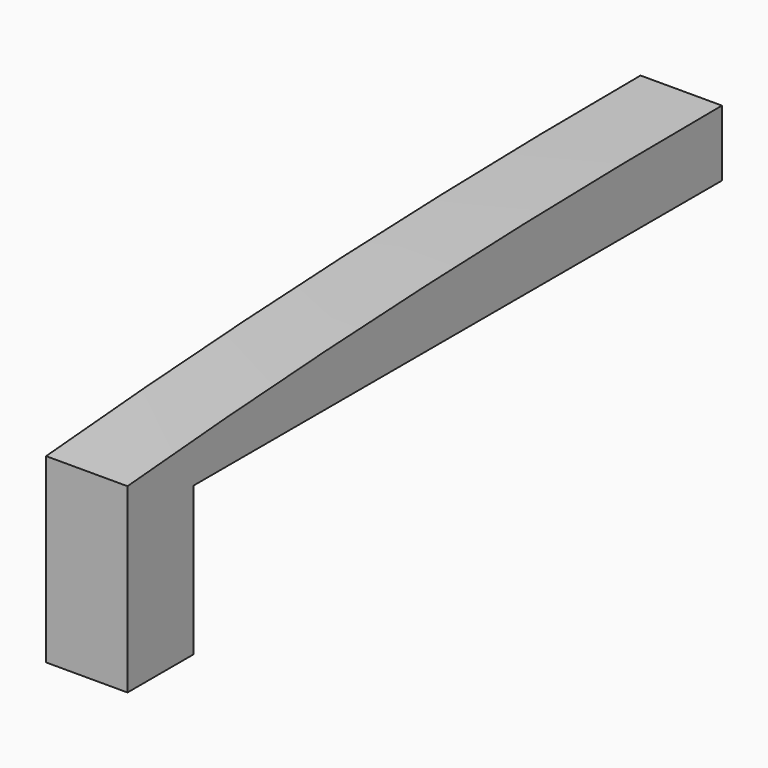
from build123d import *

# Parameters (mm, degrees)
F0_W     = 12.5222
F0_H     = 114.3
F1_DEPTH = 10.16
F3_DEPTH = 25.4
F4_W     = 12.5222
F4_H     = 12.7
F5_DEPTH = 22.86


with BuildPart() as f1:
    # F0 (on Top) → F1 (new body)
    with BuildSketch(Plane.XY):
        with Locations((-43.899023, -13.46517)):
            Rectangle(F0_W, F0_H)
    extrude(amount=F1_DEPTH)

    # F2 (on face) → F3 (cut)
    with BuildSketch(Plane.YZ.offset(-37.637923)):
        with BuildLine():
            ThreePointArc((-70.61517, 5.08), (-13.521586, 8.889373), (43.68483, 10.16))
            Line((43.68483, 10.16), (-70.61517, 10.16))
            Line((-70.61517, 10.16), (-70.61517, 5.08))
        make_face()
    extrude(amount=-F3_DEPTH, mode=Mode.SUBTRACT)

    # F4 (on face) → F5 (join)
    with BuildSketch(Plane(origin=(0, 0, 0), x_dir=(1, 0, 0), z_dir=(0, 0, -1))):
        with Locations((-43.899023, 64.26517)):
            Rectangle(F4_W, F4_H)
    extrude(amount=F5_DEPTH)


solid = f1.part
